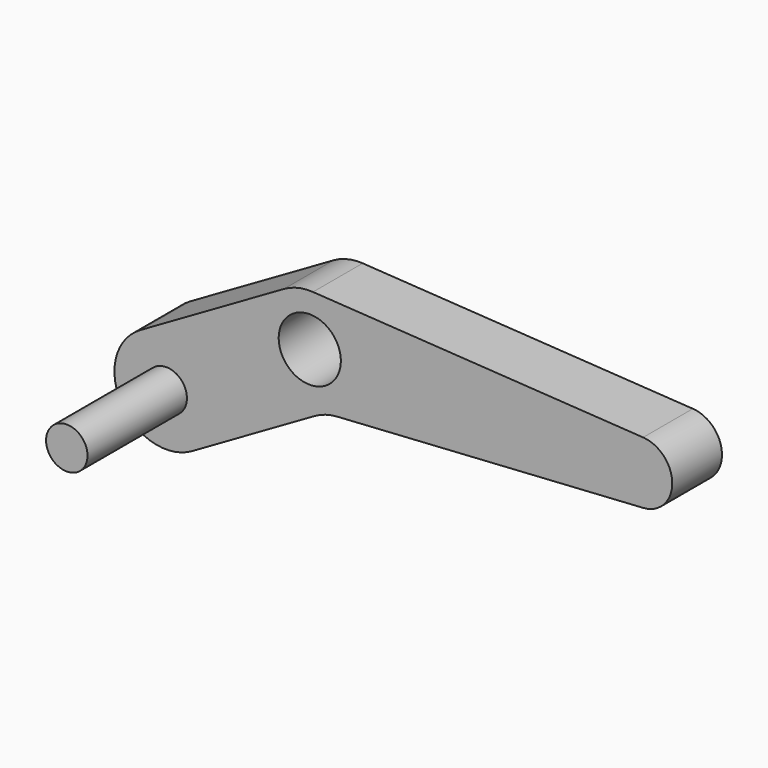
from build123d import *

# Parameters (mm, degrees)
F0_R     = 1.5
F1_DEPTH = 3
F2_R     = 1
F3_DEPTH = 6


with BuildPart() as f1:
    # F0 (on Front) → F1 (new body)
    with BuildSketch(Plane.XZ):
        with BuildLine():
            Line((8.178203, -1.834936), (1.25, 2.165064))
            ThreePointArc((1.25, 2.165064), (0.571231, 2.433864), (-0.15625, 2.495112))
            Line((-0.15625, 2.495112), (-16.09375, 1.497067))
            ThreePointArc((-16.09375, 1.497067), (-17.5, 0), (-16.09375, -1.497067))
            Line((-16.09375, -1.497067), (-1.327463, -2.421768))
            ThreePointArc((-1.327463, -2.421768), (-0.761482, -2.523477), (-0.233713, -2.751817))
            Line((-0.233713, -2.751817), (5.678203, -6.165064))
            ThreePointArc((5.678203, -6.165064), (9.093267, -5.25), (8.178203, -1.834936))
        make_face()
        Circle(F0_R, mode=Mode.SUBTRACT)
    extrude(amount=F1_DEPTH)

    # F2 (on face) → F3 (join)
    with BuildSketch(Plane.XZ.offset(3)):
        with Locations((6.928203, -4)):
            Circle(F2_R)
    extrude(amount=F3_DEPTH)


with BuildPart() as f4_1:
    # F4: instance of F1
    add(f1.part.mirror(Plane.YZ))


solid = f4_1.part
